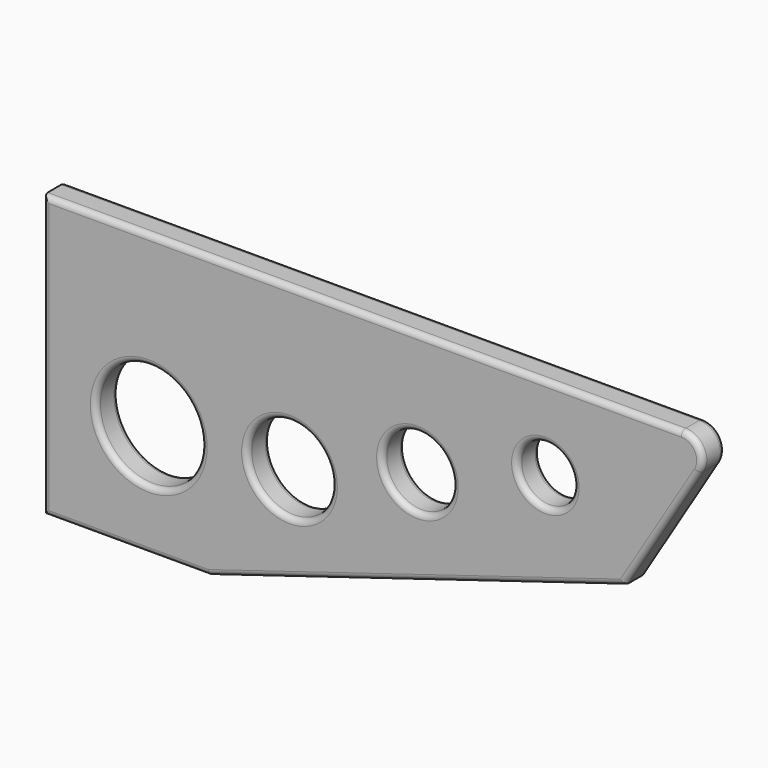
from build123d import *

# Parameters (mm, degrees)
F0_R     = 47.625
F0_R_2   = 38.1
F0_R_3   = 31.75
F0_R_4   = 25.4
F1_DEPTH = 25.4
F2_R     = 19.05
F3_R     = 5.08
F4_R     = 5.08


with BuildPart() as f1:
    # F0 (on Front) → F1 (new body)
    with BuildSketch(Plane.XZ):
        Polygon((-79.749476, 254), (-79.749476, 0), (69.861114, 0), (444.434285, 114.141539), (529.850524, 254), align=None)
        with Locations((15.500524, 101.6)):
            Circle(F0_R, mode=Mode.SUBTRACT)
        with Locations((142.500524, 108.432593)):
            Circle(F0_R_2, mode=Mode.SUBTRACT)
        with Locations((257.911119, 143.601003)):
            Circle(F0_R_3, mode=Mode.SUBTRACT)
        with Locations((373.321713, 178.769413)):
            Circle(F0_R_4, mode=Mode.SUBTRACT)
    extrude(amount=-F1_DEPTH)

    # F2
    f2_edges = [f1.edges().sort_by_distance(p)[0] for p in [
        (529.850524, 12.7, 254),
    ]]
    fillet(f2_edges, radius=F2_R)

    # F3
    f3_edges = [f1.edges().sort_by_distance(p)[0] for p in [
        (347.921713, 0, 178.769413),
        (226.161119, 0, 143.601003),
        (104.400524, 0, 108.432593),
        (-32.124476, 0, 101.6),
        (478.293136, 0, 169.581194),
        (512.508279, 0, 244.270734),
        (257.1477, 0, 57.070769),
        (208.07238, 0, 254),
        (-4.944181, 0, 0),
        (-79.749476, 0, 127),
    ]]
    fillet(f3_edges, radius=F3_R)

    # F4
    f4_edges = [f1.edges().sort_by_distance(p)[0] for p in [
        (478.293136, 25.4, 169.581194),
        (512.508279, 25.4, 244.270734),
        (257.1477, 25.4, 57.070769),
        (208.07238, 25.4, 254),
        (-4.944181, 25.4, 0),
        (-79.749476, 25.4, 127),
        (-32.124476, 25.4, 101.6),
        (104.400524, 25.4, 108.432593),
        (226.161119, 25.4, 143.601003),
        (347.921713, 25.4, 178.769413),
    ]]
    fillet(f4_edges, radius=F4_R)


solid = f1.part
